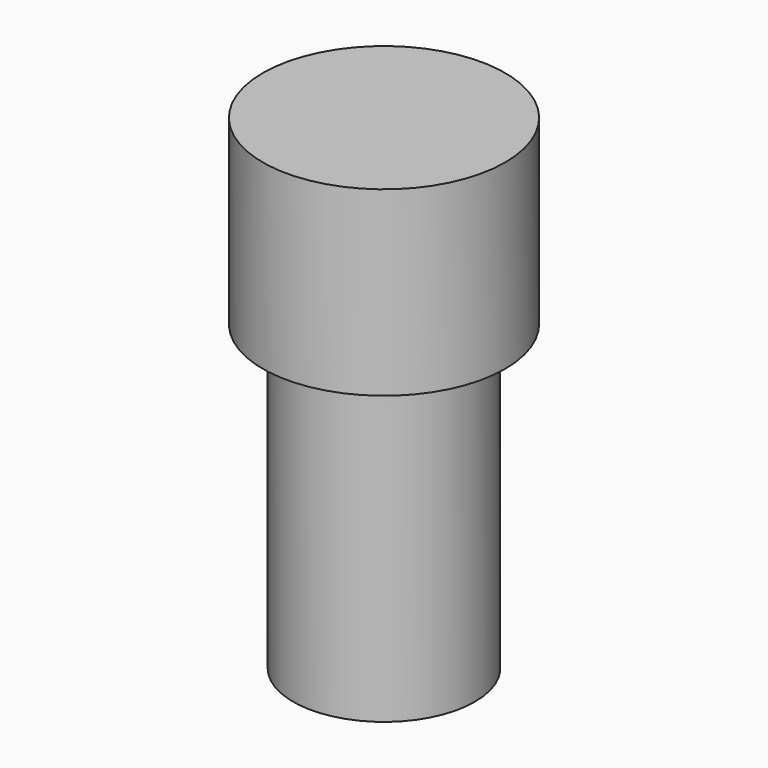
from build123d import *

# Parameters (mm, degrees)
SKETCH_R     = 1.5
PAD_DEPTH    = 5
SKETCH001_R  = 2
PAD001_DEPTH = 3


with BuildPart() as part:
    # Sketch → Pad (new body)
    with BuildSketch(Plane.XY):
        Circle(SKETCH_R)
    extrude(amount=PAD_DEPTH)

    # Sketch001 (on Face3 of Pad) → Pad001 (join)
    with BuildSketch(Plane.XY.offset(5)):
        Circle(SKETCH001_R)
    extrude(amount=PAD001_DEPTH)


solid = part.part
